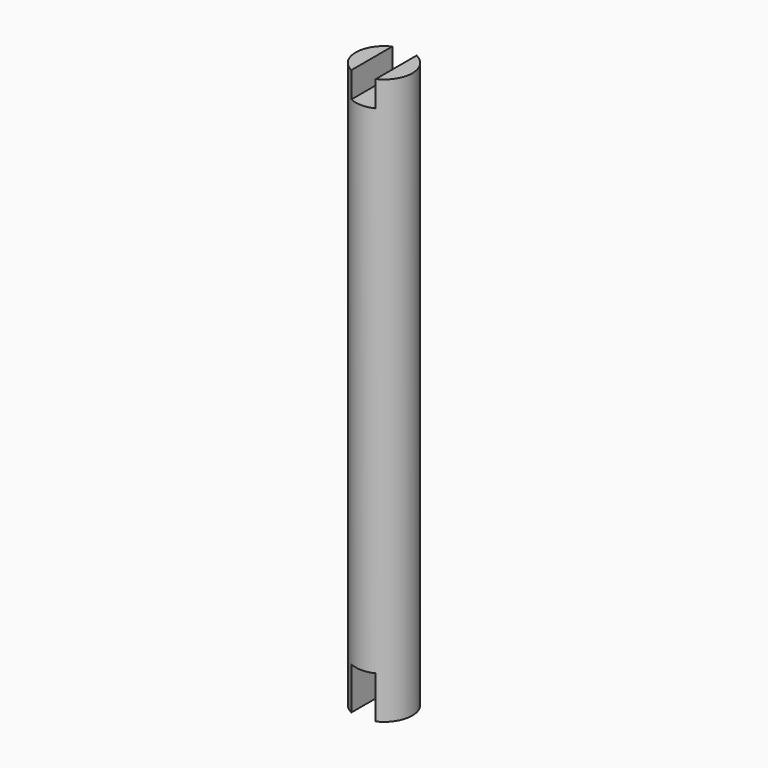
from build123d import *

# Parameters (mm, degrees)
F0_R     = 1.27
F1_DEPTH = 25.4
F2_W     = 1.0922
F2_H     = 3.81
F3_DEPTH = 9.398
F4_DEPTH = 25.4
F5_W     = 1.0922
F5_H     = 3.81
F6_DEPTH = 25.4
F7_DEPTH = 25.4
F8_DEPTH = 25.4


with BuildPart() as f1:
    # F0 (on Top) → F1 (new body)
    with BuildSketch(Plane.XY):
        Circle(F0_R)
    extrude(amount=F1_DEPTH)

    # F2 (on Front) → F3 (cut)
    with BuildSketch(Plane.XZ):
        with Locations((0, 26.14588)):
            Rectangle(F2_W, F2_H)
    extrude(amount=F3_DEPTH, mode=Mode.SUBTRACT)

    # F2 (on Front) → F4 (cut)
    with BuildSketch(Plane.XZ):
        with Locations((0, 26.14588)):
            Rectangle(F2_W, F2_H)
    extrude(amount=-F4_DEPTH, mode=Mode.SUBTRACT)

    # F5 (on Front) → F6 (cut)
    with BuildSketch(Plane.XZ):
        Rectangle(F5_W, F5_H)
    extrude(amount=-F6_DEPTH, mode=Mode.SUBTRACT)

    # F5 (on Front) → F7 (cut)
    with BuildSketch(Plane.XZ):
        Rectangle(F5_W, F5_H)
    extrude(amount=F7_DEPTH, mode=Mode.SUBTRACT)

    # F2 (on Front) → F8 (cut)
    with BuildSketch(Plane.XZ):
        with Locations((0, 26.14588)):
            Rectangle(F2_W, F2_H)
    extrude(amount=-F8_DEPTH, mode=Mode.SUBTRACT)


solid = f1.part
